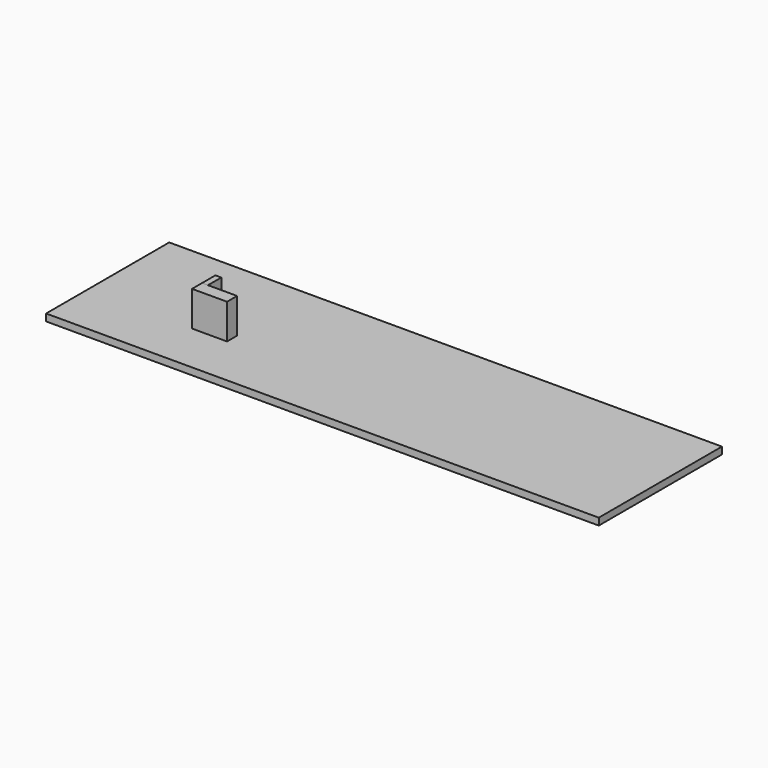
from build123d import *

# Parameters (mm, degrees)
SKETCH004_W      = 158
SKETCH004_H      = 44
PAD_DEPTH        = 2
SKETCH005_W      = 10
SKETCH005_H      = 3.6
EXTRUDE_DEPTH    = 10
SKETCH006_W      = 1.68
SKETCH006_H      = 4.74
EXTRUDE001_DEPTH = 10


with BuildPart() as body:
    # Sketch004 → Pad (new body)
    with BuildSketch(Plane.XY):
        with Locations((79, 22)):
            Rectangle(SKETCH004_W, SKETCH004_H)
    extrude(amount=-PAD_DEPTH)


with BuildPart() as extrude_body:
    # Sketch005 → Extrude (new body)
    with BuildSketch(Plane.XY):
        with Locations((35, 16.458471)):
            Rectangle(SKETCH005_W, SKETCH005_H)
    extrude(amount=EXTRUDE_DEPTH)


with BuildPart() as extrude001:
    # Sketch006 → Extrude001 (new body)
    with BuildSketch(Plane.XY):
        with Locations((30.835808, 20.634154)):
            Rectangle(SKETCH006_W, SKETCH006_H)
    extrude(amount=EXTRUDE001_DEPTH)


solid = Compound([body.part, extrude_body.part, extrude001.part])
